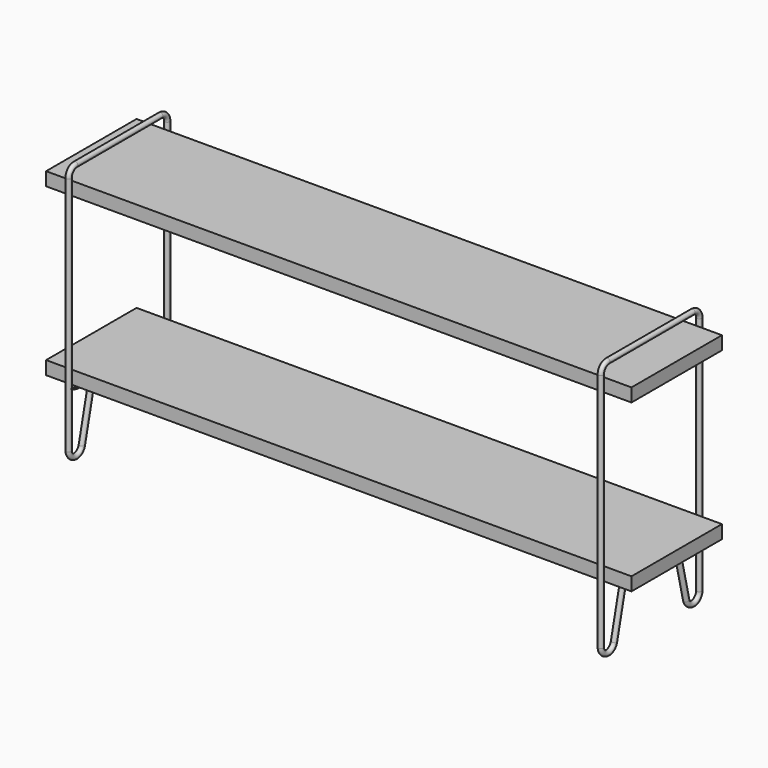
from build123d import *

# Parameters (mm, degrees)
F1_R          = 4.7625
F5_W          = 215.9
F5_H          = 25.4
F6_DEPTH      = 558.8
F6_DEPTH_BACK = 558.8
F7_R          = 2.286
F8_DEPTH      = 3.175
F9_R          = 0.635
F10_R         = 6.35


with BuildPart() as f2:
    # F2: sweep along a path in F0
    with BuildLine(Plane.YZ) as f2_path:
        Line((60.325, -368.3), (86.1451250442, -478.2905111769))
        ThreePointArc((86.1451250442, -478.2905111769), (103.4261277442, -490.4321189701), (117.475, -474.6625))
        Line((117.475, -474.6625), (117.475, -15.875))
        ThreePointArc((117.475, -15.875), (112.8253201513, -4.6496798487), (101.6, 0))
        Line((101.6, 0), (0, 0))
        Line((0, 0), (-101.6, 0))
        ThreePointArc((-101.6, 0), (-112.8253201513, -4.6496798487), (-117.475, -15.875))
        Line((-117.475, -15.875), (-117.475, -474.6625))
        ThreePointArc((-117.475, -474.6625), (-103.4261277442, -490.4321189701), (-86.1451250442, -478.2905111769))
        Line((-86.1451250442, -478.2905111769), (-60.325, -368.3))
    # F1 (on Front) → F2 (sweep)
    with BuildSketch(Plane.XZ):
        Circle(F1_R)
    sweep(path=f2_path.line)


with BuildPart() as f4_1:
    # F4: instance of F2
    add(f2.part.mirror(Plane.YZ.offset(508)))


with BuildPart() as f6:
    # F5 (on offset) → F6 (new body, two sides)
    with BuildSketch(Plane.YZ.offset(508)) as f6_sk:
        with Locations((0, -38.1)):
            Rectangle(F5_W, F5_H)
    extrude(amount=F6_DEPTH)
    extrude(f6_sk.sketch, amount=-F6_DEPTH_BACK)


with BuildPart() as f6b:
    # F5 (on offset) → F6, piece 2 (new body, two sides)
    with BuildSketch(Plane.YZ.offset(508)) as f6_2_sk:
        with Locations((0, -355.6)):
            Rectangle(F5_W, F5_H)
    extrude(amount=F6_DEPTH)
    extrude(f6_2_sk.sketch, amount=-F6_DEPTH_BACK)


with BuildPart() as f8:
    # F7 (on face) → F8 (new body)
    with BuildSketch(Plane(origin=(0, 0, -368.3), x_dir=(1, 0, 0), z_dir=(0, 0, -1))):
        with BuildLine():
            ThreePointArc((4.7625, 117.475), (0, 112.7125), (-4.7625, 117.475))
            Line((-4.7625, 117.475), (-9.525, 107.95))
            Line((-9.525, 107.95), (-9.525, -107.95))
            Line((-9.525, -107.95), (-4.7625, -117.475))
            ThreePointArc((-4.7625, -117.475), (0, -112.7125), (4.7625, -117.475))
            Line((4.7625, -117.475), (9.525, -107.95))
            Line((9.525, -107.95), (9.525, 107.95))
            Line((9.525, 107.95), (4.7625, 117.475))
        make_face()
        with Locations((0, -88.9)):
            Circle(F7_R, mode=Mode.SUBTRACT)
        with Locations((0, -44.45)):
            Circle(F7_R, mode=Mode.SUBTRACT)
        Circle(F7_R, mode=Mode.SUBTRACT)
        with Locations((0, 44.45)):
            Circle(F7_R, mode=Mode.SUBTRACT)
        with Locations((0, 88.9)):
            Circle(F7_R, mode=Mode.SUBTRACT)
    extrude(amount=F8_DEPTH)

    # F9
    f9_edges = [f8.edges().sort_by_distance(p)[0] for p in [
        (-4.7625, -117.475, -369.8875),
        (4.7625, -117.475, -369.8875),
        (4.7625, 117.475, -369.8875),
        (-4.7625, 117.475, -369.8875),
    ]]
    fillet(f9_edges, radius=F9_R)

    # F10
    f10_edges = [f8.edges().sort_by_distance(p)[0] for p in [
        (-9.525, 107.95, -369.8875),
        (9.525, 107.95, -369.8875),
        (9.525, -107.95, -369.8875),
        (-9.525, -107.95, -369.8875),
    ]]
    fillet(f10_edges, radius=F10_R)


solid = Compound([f2.part, f4_1.part, f6.part, f6b.part, f8.part])
